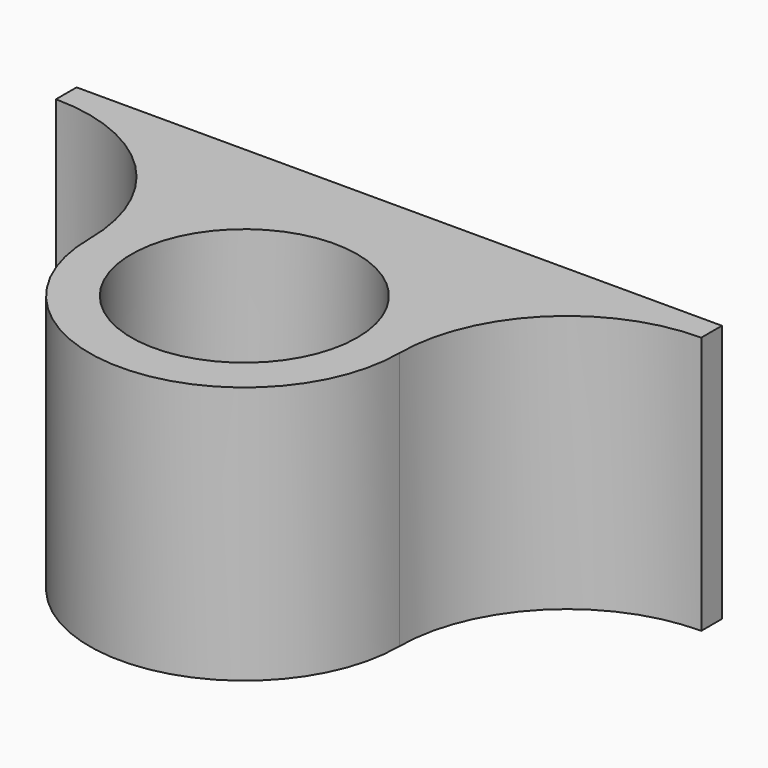
from build123d import *

# Parameters (mm, degrees)
F0_R     = 11.1125
F1_DEPTH = 25.4
F2_R     = 15.24
F3_DEPTH = 1.27
F4_W     = 53.34
F4_H     = 15.24
F5_DEPTH = 1.016


with BuildPart() as f1:
    # F0 (on Top) → F1 (new body)
    with BuildSketch(Plane.XY):
        with BuildLine():
            ThreePointArc((-31.75, 16.51), (-20.075667, 11.674333), (-15.24, 0))
            ThreePointArc((-15.24, 0), (0, -15.24), (15.24, 0))
            ThreePointArc((15.24, 0), (20.075667, 11.674333), (31.75, 16.51))
            Line((31.75, 16.51), (31.75, 19.05))
            Line((31.75, 19.05), (-31.75, 19.05))
            Line((-31.75, 19.05), (-31.75, 16.51))
        make_face()
        Circle(F0_R, mode=Mode.SUBTRACT)
    extrude(amount=F1_DEPTH)

    # F2 (on face) → F3 (join)
    with BuildSketch(Plane(origin=(0, 0, 0), x_dir=(1, 0, 0), z_dir=(0, 0, -1))):
        Circle(F2_R)
    extrude(amount=-F3_DEPTH)

    # F4 (on face) → F5 (cut)
    with BuildSketch(Plane(origin=(0, 19.05, 0), x_dir=(-1, 0, 0), z_dir=(0, 1, 0))):
        with Locations((0, 12.7)):
            Rectangle(F4_W, F4_H)
    extrude(amount=-F5_DEPTH, mode=Mode.SUBTRACT)


solid = f1.part
